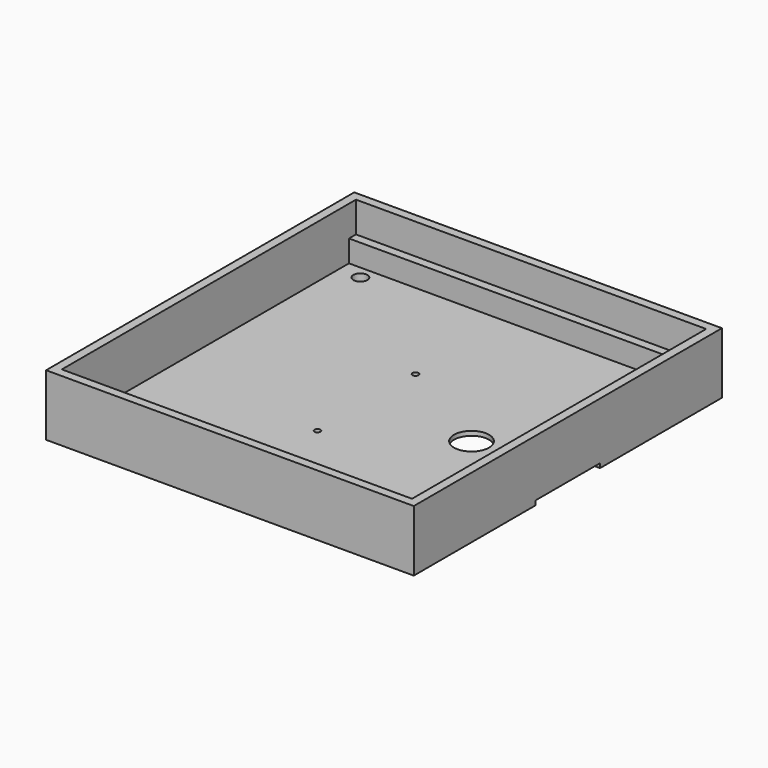
from build123d import *

# Parameters (mm, degrees)
CYLINDER009_R     = 0.8
CYLINDER009_DEPTH = 20
CYLINDER010_R     = 0.8
CYLINDER010_DEPTH = 20
CYLINDER011_R     = 0.8
CYLINDER011_DEPTH = 20
CYLINDER008_R     = 0.8
CYLINDER008_DEPTH = 20
CYLINDER005_R     = 0.34
CYLINDER005_DEPTH = 100
CYLINDER006_R     = 0.34
CYLINDER006_DEPTH = 100
CYLINDER007_R     = 0.34
CYLINDER007_DEPTH = 100
CYLINDER004_R     = 0.34
CYLINDER004_DEPTH = 100
CYLINDER002_R     = 4.6
CYLINDER002_DEPTH = 0.5
CYLINDER003_R     = 4.6
CYLINDER003_DEPTH = 0.5
BOX008_W          = 18
BOX008_H          = 9.2
BOX008_DEPTH      = 0.5
BOX004_W          = 40
BOX004_H          = 1
BOX004_DEPTH      = 2.5
CYLINDER001_R     = 2
CYLINDER001_DEPTH = 20
BOX002_W          = 40
BOX002_H          = 42
BOX002_DEPTH      = 6
BOX001_W          = 42
BOX001_H          = 44
BOX001_DEPTH      = 7
BOX003_W          = 40
BOX003_H          = 1
BOX003_DEPTH      = 2.5


with BuildPart() as zylinder009:
    # Cylinder009 → Cylinder009 (new body)
    with BuildSketch(Plane(origin=(2.5, 2.5, -10), x_dir=(1, 0, 0), z_dir=(0, 0, 1))):
        Circle(CYLINDER009_R)
    extrude(amount=CYLINDER009_DEPTH)


with BuildPart() as zylinder010:
    # Cylinder010 → Cylinder010 (new body)
    with BuildSketch(Plane(origin=(37.5, 39.5, -10), x_dir=(1, 0, 0), z_dir=(0, 0, 1))):
        Circle(CYLINDER010_R)
    extrude(amount=CYLINDER010_DEPTH)


with BuildPart() as zylinder011:
    # Cylinder011 → Cylinder011 (new body)
    with BuildSketch(Plane(origin=(2.5, 39.5, -10), x_dir=(1, 0, 0), z_dir=(0, 0, 1))):
        Circle(CYLINDER011_R)
    extrude(amount=CYLINDER011_DEPTH)


with BuildPart() as compound005:
    # Cylinder008 → Cylinder008 (new body)
    with BuildSketch(Plane(origin=(37.5, 2.5, -10), x_dir=(1, 0, 0), z_dir=(0, 0, 1))):
        Circle(CYLINDER008_R)
    extrude(amount=CYLINDER008_DEPTH)

    # Compound005: union Zylinder009, Zylinder010, Zylinder011
    add(zylinder009.part)
    add(zylinder010.part)
    add(zylinder011.part)


with BuildPart() as zylinder005:
    # Cylinder005 → Cylinder005 (new body)
    with BuildSketch(Plane(origin=(18, 28, -50), x_dir=(1, 0, 0), z_dir=(0, 0, 1))):
        Circle(CYLINDER005_R)
    extrude(amount=CYLINDER005_DEPTH)


with BuildPart() as zylinder006:
    # Cylinder006 → Cylinder006 (new body)
    with BuildSketch(Plane(origin=(36, 14.5, -50), x_dir=(1, 0, 0), z_dir=(0, 0, 1))):
        Circle(CYLINDER006_R)
    extrude(amount=CYLINDER006_DEPTH)


with BuildPart() as zylinder007:
    # Cylinder007 → Cylinder007 (new body)
    with BuildSketch(Plane(origin=(36, 27.5, -50), x_dir=(1, 0, 0), z_dir=(0, 0, 1))):
        Circle(CYLINDER007_R)
    extrude(amount=CYLINDER007_DEPTH)


with BuildPart() as m1tapholes:
    # Cylinder004 → Cylinder004 (new body)
    with BuildSketch(Plane(origin=(18, 14, -50), x_dir=(1, 0, 0), z_dir=(0, 0, 1))):
        Circle(CYLINDER004_R)
    extrude(amount=CYLINDER004_DEPTH)

    # Compound002: union Zylinder005, Zylinder006, Zylinder007
    add(zylinder005.part)
    add(zylinder006.part)
    add(zylinder007.part)


with BuildPart() as zylinder002:
    # Cylinder002 → Cylinder002 (new body)
    with BuildSketch(Plane(origin=(27.75, 21, -4.4), x_dir=(1, 0, 0), z_dir=(0, 0, 1))):
        Circle(CYLINDER002_R)
    extrude(amount=CYLINDER002_DEPTH)


with BuildPart() as zylinder003:
    # Cylinder003 → Cylinder003 (new body)
    with BuildSketch(Plane(origin=(27.75, 21, -4.4), x_dir=(1, 0, 0), z_dir=(0, 0, 1))):
        Circle(CYLINDER003_R)
    extrude(amount=CYLINDER003_DEPTH)


with BuildPart() as fusion002:
    # Box008 → Box008 (new body)
    with BuildSketch(Plane(origin=(27.5, 16.4, -4.4), x_dir=(1, 0, 0), z_dir=(0, 0, 1))):
        with Locations((9, 4.6)):
            Rectangle(BOX008_W, BOX008_H)
    extrude(amount=BOX008_DEPTH)

    # Fusion002: union Zylinder002, Zylinder003
    add(zylinder002.part)
    add(zylinder003.part)


with BuildPart() as fusion002_1:
    # Fusion002 placement: moved
    add(fusion002.part.moved(Location((2.3, 0, 0))))


with BuildPart() as obj1:
    # Box004 → Box004 (new body)
    with BuildSketch(Plane(origin=(0, 41, -3.4), x_dir=(1, 0, 0), z_dir=(0, 0, 1))):
        with Locations((20, 0.5)):
            Rectangle(BOX004_W, BOX004_H)
    extrude(amount=BOX004_DEPTH)


with BuildPart() as zylinder001:
    # Cylinder001 → Cylinder001 (new body)
    with BuildSketch(Plane(origin=(30, 21, -10), x_dir=(1, 0, 0), z_dir=(0, 0, 1))):
        Circle(CYLINDER001_R)
    extrude(amount=CYLINDER001_DEPTH)


with BuildPart() as obj2:
    # Box002 → Box002 (new body)
    with BuildSketch(Plane.XY.offset(-3.4)):
        with Locations((20, 21)):
            Rectangle(BOX002_W, BOX002_H)
    extrude(amount=BOX002_DEPTH)


with BuildPart() as cut002:
    # Box001 → Box001 (new body)
    with BuildSketch(Plane(origin=(-1, -1, -4.4), x_dir=(1, 0, 0), z_dir=(0, 0, 1))):
        with Locations((21, 22)):
            Rectangle(BOX001_W, BOX001_H)
    extrude(amount=BOX001_DEPTH)

    # Cut001: cut obj2
    add(obj2.part, mode=Mode.SUBTRACT)

    # Cut002: cut Zylinder001
    add(zylinder001.part, mode=Mode.SUBTRACT)


with BuildPart() as upperpart:
    # Box003 → Box003 (new body)
    with BuildSketch(Plane.XY.offset(-3.4)):
        with Locations((20, 0.5)):
            Rectangle(BOX003_W, BOX003_H)
    extrude(amount=BOX003_DEPTH)

    # Fusion: union obj1, Cut002
    add(obj1.part)
    add(cut002.part)

    # Cut004: cut Fusion002
    add(fusion002_1.part, mode=Mode.SUBTRACT)

    # Cut005: cut M1TapHoles
    add(m1tapholes.part, mode=Mode.SUBTRACT)

    # Cut007: cut Compound005
    add(compound005.part, mode=Mode.SUBTRACT)


solid = upperpart.part
